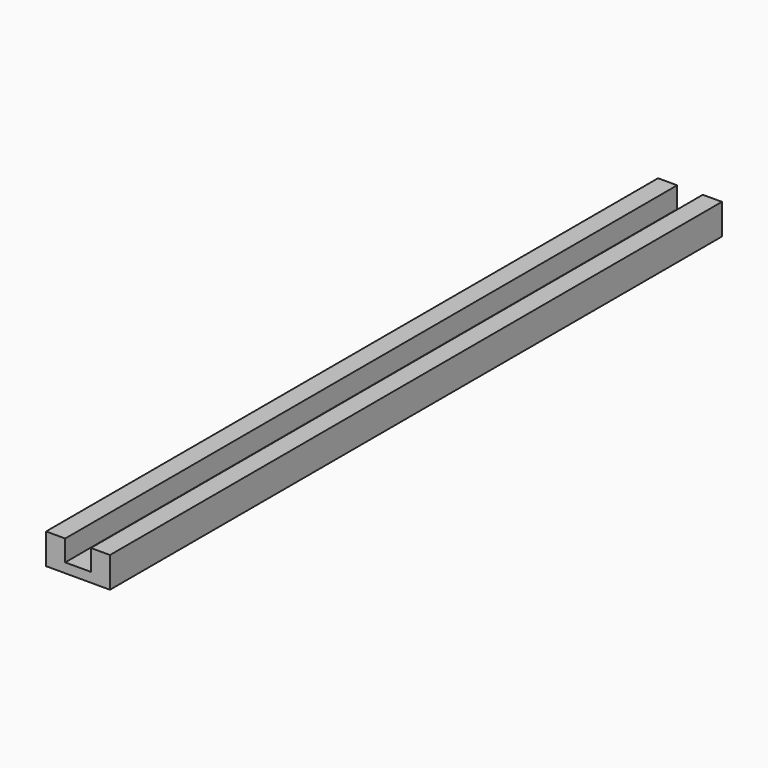
from build123d import *

# Parameters (mm, degrees)
F1_DEPTH  = 10
F1_FACE_W = 6.7
F1_FACE_H = 10
F2_DEPTH  = 0.5
F3_DEPTH  = 190


with BuildPart() as f1:
    # F0 (on Front) → F1 (new body)
    with BuildSketch(Plane.XZ):
        Polygon((-3.35, 4), (-8.35, 4), (-8.35, -4), (8.35, -4), (8.35, 4), (3.35, 4), (3.35, -2), (-3.35, -2), align=None)
    extrude(amount=F1_DEPTH)

    # F1_face (on face) → F2 (join)
    with BuildSketch(Plane(origin=(0, -5, -2), x_dir=(1, 0, 0), z_dir=(0, 0, 1))):
        Rectangle(F1_FACE_W, F1_FACE_H)
    extrude(amount=F2_DEPTH)

    # F2_face (on face) → F3 (join)
    with BuildSketch(Plane(origin=(0, -10, -0.476098), x_dir=(1, 0, 0), z_dir=(0, -1, 0))):
        Polygon((-3.35, 4.476098), (-8.35, 4.476098), (-8.35, -3.523902), (8.35, -3.523902), (8.35, 4.476098), (3.35, 4.476098), (3.35, -1.023902), (-3.35, -1.023902), align=None)
    extrude(amount=F3_DEPTH)


solid = f1.part
